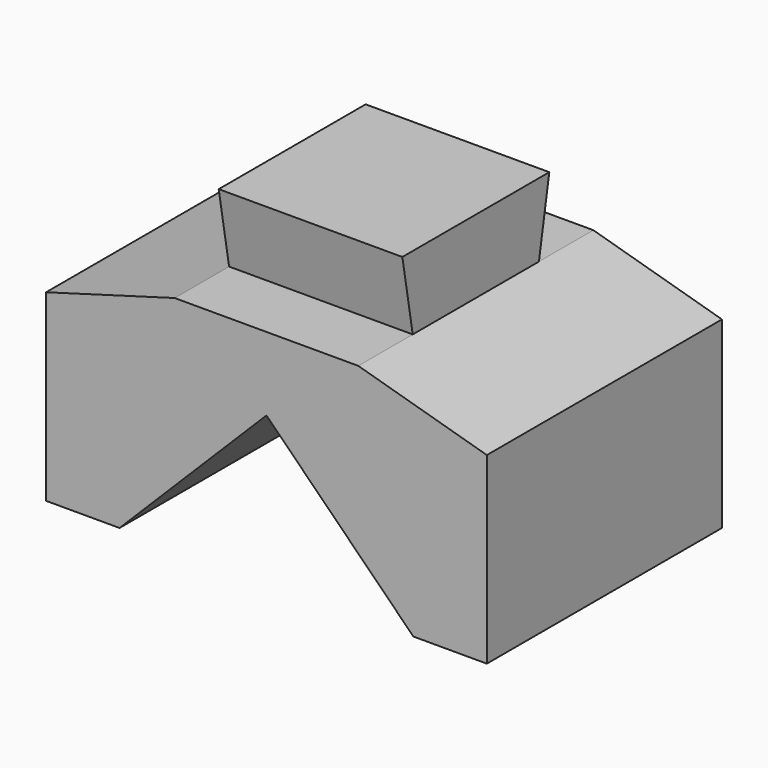
from build123d import *

# Parameters (mm, degrees)
F0_W     = 31.75
F0_H     = 12.7
F1_DEPTH = 25.4
F3_DEPTH = 53.976


with BuildPart() as f1:
    # F0 (on Front) → F1 (new body, symmetric)
    with BuildSketch(Plane.XZ):
        Rectangle(F0_W, F0_H)
        Polygon((15.875, -6.35), (-15.875, -6.35), (-38.1, -12.7), (-38.1, -44.45), (-25.4, -44.45), (0, -19.05), (25.4, -44.45), (38.1, -44.45), (38.1, -12.7), align=None)
    extrude(amount=F1_DEPTH, both=True)

    # F2 (on face) → F3 (cut, through all)
    with BuildSketch(Plane.YZ.offset(15.875)):
        Polygon((-13.635647, -6.35), (-15.875, 6.35), (-25.4, 6.35), (-25.4, -6.35), align=None)
        Polygon((25.4, 6.35), (15.875, 6.35), (13.635647, -6.35), (25.4, -6.35), align=None)
    extrude(amount=-F3_DEPTH, mode=Mode.SUBTRACT)


solid = f1.part
